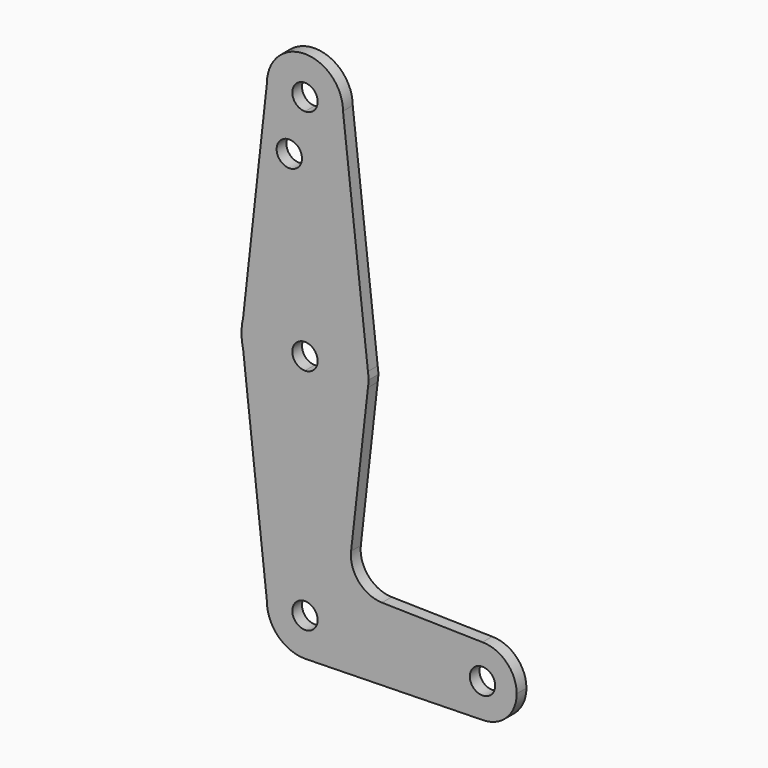
from build123d import *

# Parameters (mm, degrees)
F0_R     = 3.175
F1_DEPTH = 3.048


with BuildPart() as f1:
    # F0 (on Front) → F1 (new body)
    with BuildSketch(Plane.XZ):
        with BuildLine():
            ThreePointArc((-9.525, 76.0643728852), (-6.7351920908, 69.3291807944), (0, 66.5393728852))
            ThreePointArc((0, 66.5393728852), (6.7351920908, 69.3291807944), (9.525, 76.0643728852))
            ThreePointArc((9.525, 76.0643728852), (0, 85.5893728852), (-9.525, 76.0643728852))
        make_face()
        with BuildLine():
            ThreePointArc((3.175, 76.0643728852), (2.2450640303, 73.819308855), (0, 72.8893728852))
            ThreePointArc((0, 72.8893728852), (-2.2450640303, 78.3094369155), (3.175, 76.0643728852))
        make_face(mode=Mode.SUBTRACT)
        with BuildLine():
            ThreePointArc((9.525, 76.0643728852), (6.7351920908, 69.3291807944), (0, 66.5393728852))
            Line((0, 66.5393728852), (0, 34.7893728852))
            ThreePointArc((0, 34.7893728852), (10.5770705806, 30.7524978606), (15.774826256, 20.6949575066))
            Line((15.774826256, 20.6949575066), (9.525, 76.0643728852))
        make_face()
        with BuildLine():
            Line((0, 34.7893728852), (0, 66.5393728852))
            ThreePointArc((0, 66.5393728852), (-6.7351920908, 69.3291807944), (-9.525, 76.0643728852))
            Line((-9.525, 76.0643728852), (-15.487804878, 22.3991289828))
            ThreePointArc((-15.487804878, 22.3991289828), (-9.9170338799, 31.3106652351), (0, 34.7893728852))
        make_face()
        with Locations((-3.9218557067, 62.2719153762)):
            Circle(F0_R, mode=Mode.SUBTRACT)
        with BuildLine():
            ThreePointArc((15.774826256, 20.6949575066), (10.5770705806, 30.7524978606), (0, 34.7893728852))
            Line((0, 34.7893728852), (0, 22.0893728852))
            ThreePointArc((0, 22.0893728852), (2.2450640303, 21.1594369155), (3.175, 18.9143728852))
            ThreePointArc((3.175, 18.9143728852), (2.2450640303, 16.669308855), (0, 15.7393728852))
            Line((0, 15.7393728852), (0, 3.0393728852))
            ThreePointArc((0, 3.0393728852), (10.5770706226, 7.0762479474), (15.7748262686, 17.1337883757))
            ThreePointArc((15.7748262686, 17.1337883757), (15.8499367824, 18.0226728275), (15.875, 18.9143728852))
            ThreePointArc((15.875, 18.9143728852), (15.8499367793, 19.8060729992), (15.774826256, 20.6949575066))
        make_face()
        with BuildLine():
            Line((0, 22.0893728852), (0, 34.7893728852))
            ThreePointArc((0, 34.7893728852), (-9.9170338799, 31.3106652351), (-15.487804878, 22.3991289828))
            Line((-15.487804878, 22.3991289828), (-15.875, 18.9143728852))
            Line((-15.875, 18.9143728852), (-15.487804878, 15.4296167877))
            ThreePointArc((-15.487804878, 15.4296167877), (-9.9170338799, 6.5180805353), (0, 3.0393728852))
            Line((0, 3.0393728852), (0, 15.7393728852))
            ThreePointArc((0, 15.7393728852), (-3.175, 18.9143728852), (0, 22.0893728852))
        make_face()
        with BuildLine():
            Line((15.9758098575, 18.9143728852), (15.774826256, 20.6949575066))
            ThreePointArc((15.774826256, 20.6949575066), (15.8499367793, 19.8060729992), (15.875, 18.9143728852))
            ThreePointArc((15.875, 18.9143728852), (15.8499367824, 18.0226728275), (15.7748262686, 17.1337883757))
            Line((15.7748262686, 17.1337883757), (15.9758098575, 18.9143728852))
        make_face()
        with BuildLine():
            Line((-15.875, 18.9143728852), (-15.487804878, 22.3991289828))
            ThreePointArc((-15.487804878, 22.3991289828), (-15.7779042879, 20.6674733617), (-15.875, 18.9143728852))
        make_face()
        with BuildLine():
            Line((-15.487804878, 15.4296167877), (-15.875, 18.9143728852))
            ThreePointArc((-15.875, 18.9143728852), (-15.7779042879, 17.1612724088), (-15.487804878, 15.4296167877))
        make_face()
        with BuildLine():
            ThreePointArc((15.7748262686, 17.1337883757), (10.5770706226, 7.0762479474), (0, 3.0393728852))
            Line((0, 3.0393728852), (0, -28.7106271148))
            ThreePointArc((0, -28.7106271148), (6.7351920908, -31.500435024), (9.525, -38.2356271148))
            ThreePointArc((9.525, -38.2356271148), (6.8779386983, -44.8249809725), (0.4080269264, -47.7518836806))
            Line((0.4080269264, -47.7518836806), (44.45, -46.8081271148))
            ThreePointArc((44.45, -46.8081271148), (35.8775, -38.2356271148), (44.45, -29.6631271148))
            Line((44.45, -29.6631271148), (19.2810355604, -29.1237921625))
            ThreePointArc((19.2810355604, -29.1237921625), (13.4664213288, -26.4086008003), (11.5513248936, -20.2837001121))
            Line((11.5513248936, -20.2837001121), (15.7748262686, 17.1337883757))
        make_face()
        with BuildLine():
            Line((0, -28.7106271148), (0, 3.0393728852))
            ThreePointArc((0, 3.0393728852), (-9.9170338799, 6.5180805353), (-15.487804878, 15.4296167877))
            Line((-15.487804878, 15.4296167877), (-9.525, -38.2356271148))
            ThreePointArc((-9.525, -38.2356271148), (-6.7351920908, -31.500435024), (0, -28.7106271148))
        make_face()
        with BuildLine():
            ThreePointArc((9.525, -38.2356271148), (6.7351920908, -31.500435024), (0, -28.7106271148))
            ThreePointArc((0, -28.7106271148), (-6.7351920908, -31.500435024), (-9.525, -38.2356271148))
            ThreePointArc((-9.525, -38.2356271148), (-6.7351920908, -44.9708192056), (0, -47.7606271148))
            Line((0, -47.7606271148), (0.4080269264, -47.7518836806))
            ThreePointArc((0.4080269264, -47.7518836806), (6.8779386983, -44.8249809725), (9.525, -38.2356271148))
        make_face()
        with BuildLine():
            ThreePointArc((3.175, -38.2356271148), (-2.2450640303, -40.480691145), (0, -35.0606271148))
            ThreePointArc((0, -35.0606271148), (2.2450640303, -35.9905630845), (3.175, -38.2356271148))
        make_face(mode=Mode.SUBTRACT)
        with BuildLine():
            Line((0.4080269264, -47.7518836806), (0, -47.7606271148))
            ThreePointArc((0, -47.7606271148), (0.2040602977, -47.7584410054), (0.4080269264, -47.7518836806))
        make_face()
        with BuildLine():
            ThreePointArc((53.0225, -38.2356271148), (50.5116728817, -32.1739542331), (44.45, -29.6631271148))
            ThreePointArc((44.45, -29.6631271148), (35.8775, -38.2356271148), (44.45, -46.8081271148))
            ThreePointArc((44.45, -46.8081271148), (50.5116728817, -44.2972999965), (53.0225, -38.2356271148))
        make_face()
        with Locations((44.45, -38.2356271148)):
            Circle(F0_R, mode=Mode.SUBTRACT)
    extrude(amount=F1_DEPTH)


solid = f1.part
